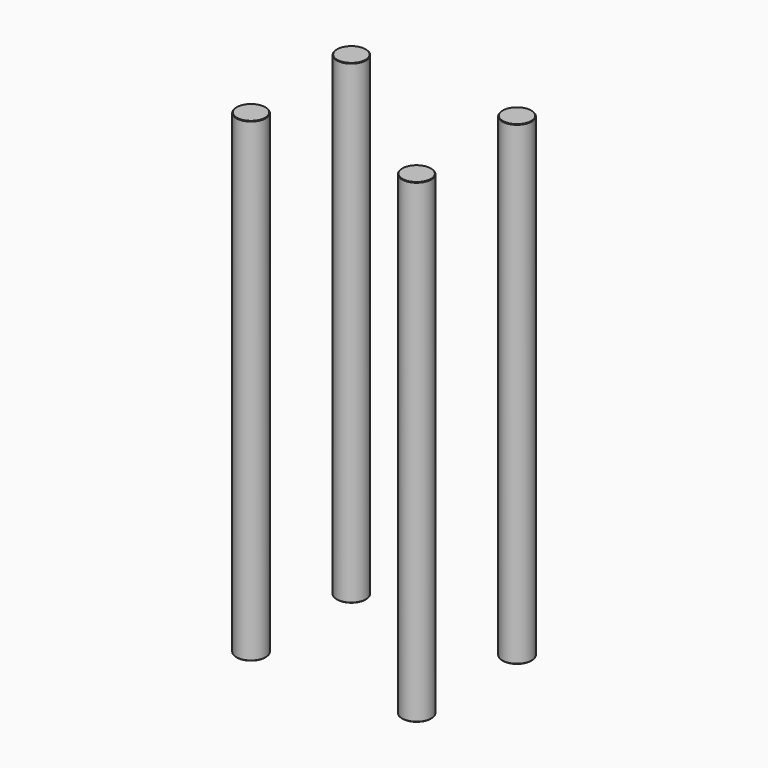
from build123d import *

# Parameters (mm, degrees)
F0_R       = 15
F1_DEPTH   = 485
F2_D       = 10.3
F2_DEPTH   = 50
F2_TIP     = 3.094432188
F2_2_D     = 10.3
F2_2_DEPTH = 50
F2_2_TIP   = 3.094432188
F2_3_D     = 10.3
F2_3_DEPTH = 50
F2_3_TIP   = 3.094432188
F2_4_D     = 10.3
F2_4_DEPTH = 50
F2_4_TIP   = 3.094432188
F3_SIZE    = 0.5
F3_2_SIZE  = 0.5
F3_3_SIZE  = 0.5
F3_4_SIZE  = 0.5


with BuildPart() as f1:
    # F0 (on Top) → F1 (new body)
    with BuildSketch(Plane.XY):
        with Locations((84.5, -64)):
            Circle(F0_R)
    extrude(amount=F1_DEPTH)

    # F2
    with Locations(Plane(origin=(0, 0, 0), x_dir=(1, 0, 0), z_dir=(0, 0, -1))):
        with Locations((-84.5, -64), (-84.5, 64), (84.5, 64), (84.5, -64)):
            Hole(F2_D / 2, depth=F2_DEPTH)
            with Locations((0, 0, -(F2_DEPTH + F2_TIP / 2))):  # 118° drill point
                Cone(0, F2_D / 2, F2_TIP, mode=Mode.SUBTRACT)

    # F3
    f3_edges = [f1.edges().sort_by_distance(p)[0] for p in [
        (99.5, -64, 242.5),
        (69.5, -64, 0),
        (69.5, -64, 485),
    ]]
    chamfer(f3_edges, length=F3_SIZE)


with BuildPart() as f1b:
    # F0 (on Top) → F1, piece 2 (new body)
    with BuildSketch(Plane.XY):
        with Locations((-84.5, -64)):
            Circle(F0_R)
    extrude(amount=F1_DEPTH)

    # F2#2
    with Locations(Plane(origin=(0, 0, 0), x_dir=(1, 0, 0), z_dir=(0, 0, -1))):
        with Locations((-84.5, -64), (-84.5, 64), (84.5, 64), (84.5, -64)):
            Hole(F2_2_D / 2, depth=F2_2_DEPTH)
            with Locations((0, 0, -(F2_2_DEPTH + F2_2_TIP / 2))):  # 118° drill point
                Cone(0, F2_2_D / 2, F2_2_TIP, mode=Mode.SUBTRACT)

    # F3#2
    f3_2_edges = [f1b.edges().sort_by_distance(p)[0] for p in [
        (-69.5, -64, 242.5),
        (-99.5, -64, 0),
        (-99.5, -64, 485),
    ]]
    chamfer(f3_2_edges, length=F3_2_SIZE)


with BuildPart() as f1c:
    # F0 (on Top) → F1, piece 3 (new body)
    with BuildSketch(Plane.XY):
        with Locations((-84.5, 64)):
            Circle(F0_R)
    extrude(amount=F1_DEPTH)

    # F2#3
    with Locations(Plane(origin=(0, 0, 0), x_dir=(1, 0, 0), z_dir=(0, 0, -1))):
        with Locations((-84.5, -64), (-84.5, 64), (84.5, 64), (84.5, -64)):
            Hole(F2_3_D / 2, depth=F2_3_DEPTH)
            with Locations((0, 0, -(F2_3_DEPTH + F2_3_TIP / 2))):  # 118° drill point
                Cone(0, F2_3_D / 2, F2_3_TIP, mode=Mode.SUBTRACT)

    # F3#4
    f3_4_edges = [f1c.edges().sort_by_distance(p)[0] for p in [
        (-69.5, 64, 242.5),
        (-99.5, 64, 0),
        (-99.5, 64, 485),
    ]]
    chamfer(f3_4_edges, length=F3_4_SIZE)


with BuildPart() as f1d:
    # F0 (on Top) → F1, piece 4 (new body)
    with BuildSketch(Plane.XY):
        with Locations((84.5, 64)):
            Circle(F0_R)
    extrude(amount=F1_DEPTH)

    # F2#4
    with Locations(Plane(origin=(0, 0, 0), x_dir=(1, 0, 0), z_dir=(0, 0, -1))):
        with Locations((-84.5, -64), (-84.5, 64), (84.5, 64), (84.5, -64)):
            Hole(F2_4_D / 2, depth=F2_4_DEPTH)
            with Locations((0, 0, -(F2_4_DEPTH + F2_4_TIP / 2))):  # 118° drill point
                Cone(0, F2_4_D / 2, F2_4_TIP, mode=Mode.SUBTRACT)

    # F3#3
    f3_3_edges = [f1d.edges().sort_by_distance(p)[0] for p in [
        (99.5, 64, 242.5),
        (69.5, 64, 0),
        (69.5, 64, 485),
    ]]
    chamfer(f3_3_edges, length=F3_3_SIZE)


solid = Compound([f1.part, f1b.part, f1c.part, f1d.part])
